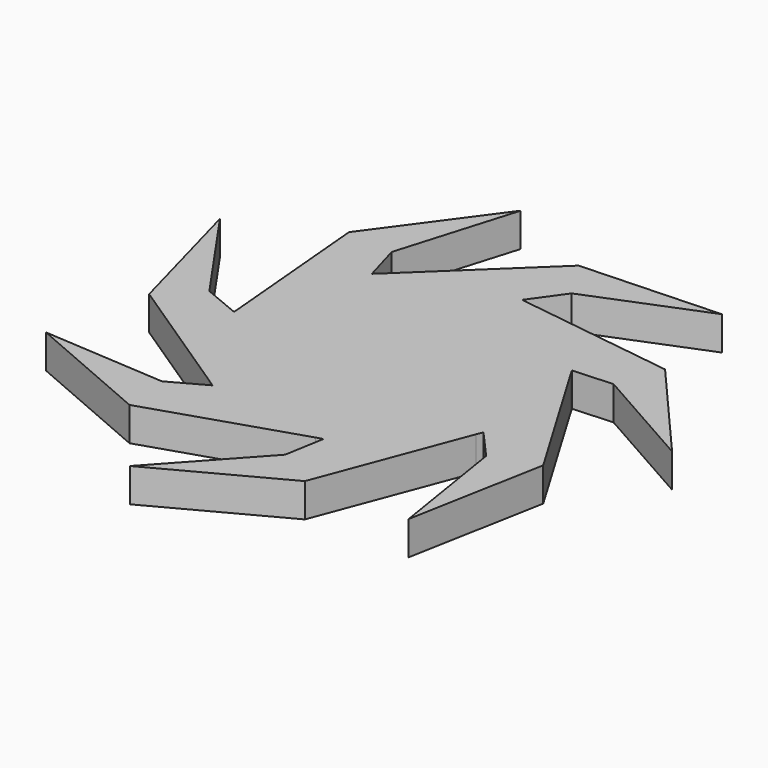
from build123d import *

# Parameters (mm, degrees)
F1_DEPTH = 7


with BuildPart() as f1:
    # F0 (on Top) → F1 (new body)
    with BuildSketch(Plane.XY):
        with BuildLine():
            ThreePointArc((-19.735983, 22.594047), (-8.650477, 28.725759), (3.977567, 29.735147))
            Line((3.977567, 29.735147), (8.799334, 36.498775))
            Line((8.799334, 36.498775), (32.390244, 46.000058))
            Line((32.390244, 46.000058), (3.600638, 44.822127))
            Line((3.600638, 44.822127), (-19.735983, 22.594047))
        make_face()
        with BuildLine():
            ThreePointArc((5.359553, 29.517371), (17.065219, 24.673433), (25.727846, 15.429774))
            Line((25.727846, 15.429774), (34.022186, 15.877018))
            Line((34.022186, 15.877018), (56.15928, 3.356855))
            Line((56.15928, 3.356855), (37.288311, 25.131047))
            Line((37.288311, 25.131047), (5.359553, 29.517371))
        make_face()
        with BuildLine():
            ThreePointArc((26.419237, 14.213512), (29.091039, 7.328809), (30, 0))
            ThreePointArc((30, 0), (29.52233, -5.332167), (28.104533, -10.494534))
            Line((28.104533, -10.494534), (33.625638, -16.700457))
            Line((33.625638, -16.700457), (37.639233, -41.814129))
            Line((37.639233, -41.814129), (42.897125, -13.484224))
            Line((42.897125, -13.484224), (26.419237, 14.213512))
        make_face()
        with BuildLine():
            Line((16.203529, -41.945599), (27.584696, -11.793411))
            ThreePointArc((27.584696, -11.793411), (20.25745, -22.127714), (9.317933, -28.516243))
            Line((9.317933, -28.516243), (7.908299, -36.702148))
            Line((7.908299, -36.702148), (-9.223924, -55.49822))
            Line((-9.223924, -55.49822), (16.203529, -41.945599))
        make_face()
        with BuildLine():
            Line((-22.691655, -38.821083), (7.978317, -28.919655))
            ThreePointArc((7.978317, -28.919655), (-4.66983, -29.634316), (-16.485261, -25.06464))
            Line((-16.485261, -25.06464), (-23.764151, -29.066372))
            Line((-23.764151, -29.066372), (-49.141278, -27.39102))
            Line((-49.141278, -27.39102), (-22.691655, -38.821083))
        make_face()
        with BuildLine():
            Line((-44.49956, -6.463499), (-17.635898, -24.268809))
            ThreePointArc((-17.635898, -24.268809), (-26.080633, -14.825674), (-29.874717, -2.738852))
            Line((-29.874717, -2.738852), (-37.54171, 0.456975))
            Line((-37.54171, 0.456975), (-52.054248, 21.342177))
            Line((-52.054248, 21.342177), (-44.49956, -6.463499))
        make_face()
        with BuildLine():
            ThreePointArc((28.104533, -10.494534), (29.52233, -5.332167), (30, 0))
            ThreePointArc((30, 0), (29.091039, 7.328809), (26.419237, 14.213512))
            ThreePointArc((26.419237, 14.213512), (26.080633, 14.825674), (25.727846, 15.429774))
            ThreePointArc((25.727846, 15.429774), (17.065219, 24.673433), (5.359553, 29.517371))
            ThreePointArc((5.359553, 29.517371), (4.66983, 29.634316), (3.977567, 29.735147))
            ThreePointArc((3.977567, 29.735147), (-8.650477, 28.725759), (-19.735983, 22.594047))
            ThreePointArc((-19.735983, 22.594047), (-20.25745, 22.127714), (-20.767902, 21.649348))
            ThreePointArc((-20.767902, 21.649348), (-27.852187, 11.147003), (-29.969922, -1.343055))
            ThreePointArc((-29.969922, -1.343055), (-29.930457, -2.041508), (-29.874717, -2.738852))
            ThreePointArc((-29.874717, -2.738852), (-26.080633, -14.825674), (-17.635898, -24.268809))
            ThreePointArc((-17.635898, -24.268809), (-17.065219, -24.673433), (-16.485261, -25.06464))
            ThreePointArc((-16.485261, -25.06464), (-4.66983, -29.634316), (7.978317, -28.919655))
            ThreePointArc((7.978317, -28.919655), (8.650477, -28.725759), (9.317933, -28.516243))
            ThreePointArc((9.317933, -28.516243), (20.25745, -22.127714), (27.584696, -11.793411))
            ThreePointArc((27.584696, -11.793411), (27.852187, -11.147003), (28.104533, -10.494534))
        make_face()
        with BuildLine():
            ThreePointArc((-29.969922, -1.343055), (-27.852187, 11.147003), (-20.767902, 21.649348))
            Line((-20.767902, 21.649348), (-23.049596, 29.63621))
            Line((-23.049596, 29.63621), (-15.769307, 54.004279))
            Line((-15.769307, 54.004279), (-32.798389, 30.761231))
            Line((-32.798389, 30.761231), (-29.969922, -1.343055))
        make_face()
    extrude(amount=F1_DEPTH)


solid = f1.part
